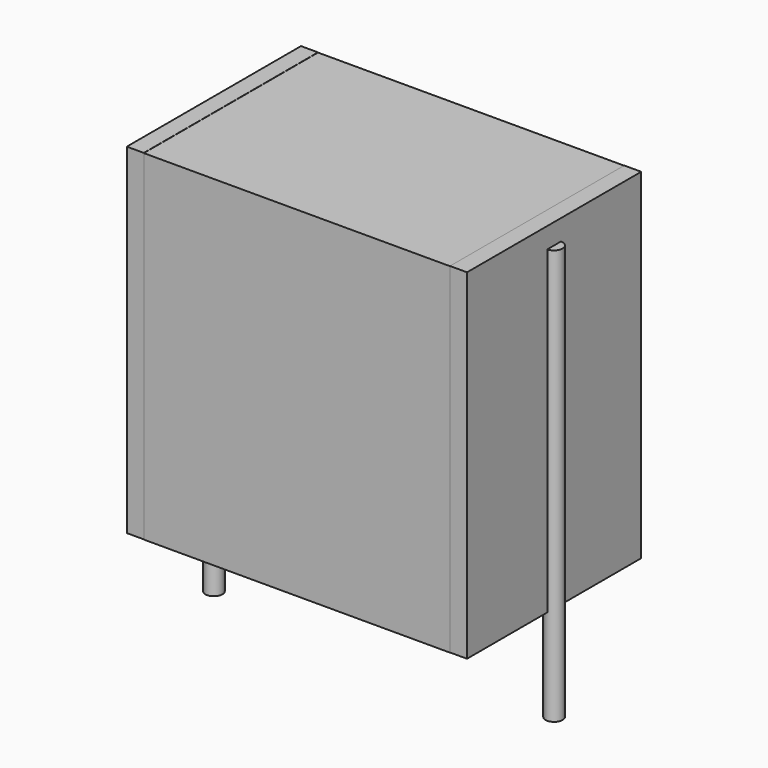
from build123d import *

# Parameters (mm, degrees)
SKETCH_W          = 9
SKETCH_H          = 6.4
PAD_DEPTH         = 10
SKETCH001_R       = 0.25
PAD001_DEPTH      = 9
PAD001_DEPTH_BACK = 3.2
SKETCH002_W       = 0.5
SKETCH002_H       = 6.4
PAD002_DEPTH      = 10


with BuildPart() as pad:
    # Sketch → Pad (new body)
    with BuildSketch(Plane.XY.offset(0.1)):
        with Locations((5, 0)):
            Rectangle(SKETCH_W, SKETCH_H)
    extrude(amount=PAD_DEPTH)


with BuildPart() as pad001:
    # Sketch001 → Pad001 (new body, two sides)
    with BuildSketch(Plane.XY.offset(0.5)) as pad001_sk:
        Circle(SKETCH001_R)
        with Locations((10, 0)):
            Circle(SKETCH001_R)
    extrude(amount=PAD001_DEPTH)
    extrude(pad001_sk.sketch, amount=-PAD001_DEPTH_BACK)


with BuildPart() as pad002:
    # Sketch002 → Pad002 (new body)
    with BuildSketch(Plane.XY.offset(0.105)):
        with Locations((0.25, 0)):
            Rectangle(SKETCH002_W, SKETCH002_H)
        with Locations((9.75, 0)):
            Rectangle(SKETCH002_W, SKETCH002_H)
    extrude(amount=PAD002_DEPTH)


solid = Compound([pad.part, pad001.part, pad002.part])
